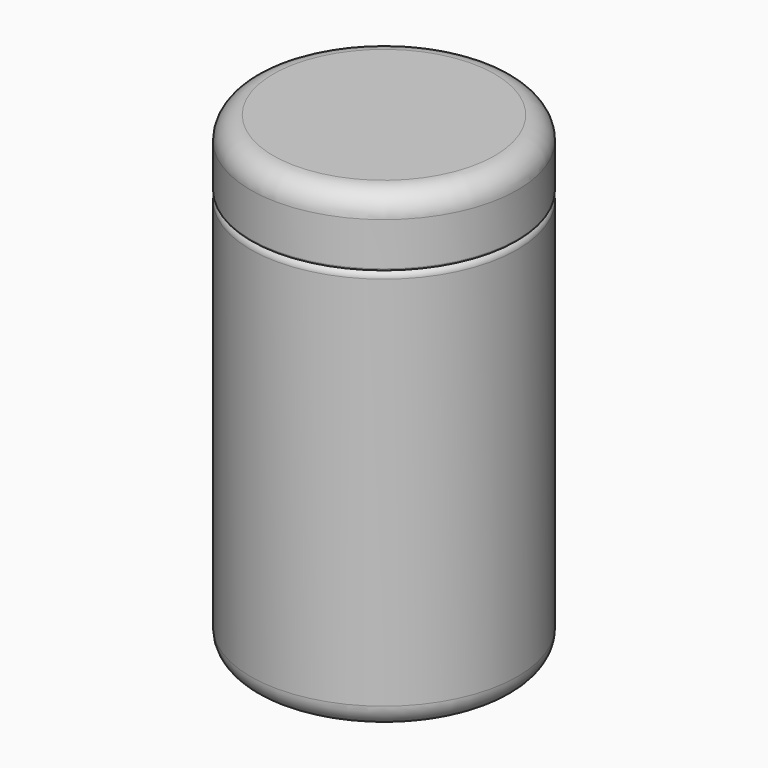
from build123d import *


with BuildPart() as f1:
    # F0 (on Front) → F1 (revolve)
    with BuildSketch(Plane.XZ):
        with BuildLine():
            ThreePointArc((31.496, 128.905), (32.844965, 128.517183), (33.782, 127.47216))
            ThreePointArc((33.782, 127.47216), (33.971686, 126.932961), (34.036, 126.365))
            Line((34.036, 126.365), (34.036, 117.602))
            ThreePointArc((34.036, 117.602), (34.069519, 117.46001), (34.163, 117.348))
            ThreePointArc((34.163, 117.348), (34.417, 116.84), (34.163, 116.332))
            ThreePointArc((34.163, 116.332), (34.069519, 116.21999), (34.036, 116.078))
            Line((34.036, 116.078), (34.036, 114.3))
            ThreePointArc((34.036, 114.3), (34.407974, 113.401974), (35.306, 113.03))
            Line((35.306, 113.03), (36.576, 113.03))
            ThreePointArc((36.576, 113.03), (37.025013, 113.215987), (37.211, 113.665))
            Line((37.211, 113.665), (37.211, 125.73))
            ThreePointArc((37.211, 125.73), (35.351128, 130.220128), (30.861, 132.08))
            Line((30.861, 132.08), (0, 132.08))
            Line((0, 132.08), (0, 128.905))
            Line((0, 128.905), (30.6705, 128.905))
            Line((30.6705, 128.905), (31.496, 128.905))
        make_face()
    revolve(axis=Axis((0, 0, 130.4925), (0, 0, -1)))


with BuildPart() as f2:
    # F0 (on Front) → F2 (revolve)
    with BuildSketch(Plane.XZ):
        with BuildLine():
            Line((0, 3.175), (0, 0))
            Line((0, 0), (30.861, 0))
            ThreePointArc((30.861, 0), (35.351128, 1.859872), (37.211, 6.35))
            Line((37.211, 6.35), (37.211, 111.125))
            ThreePointArc((37.211, 111.125), (36.955167, 112.078559), (36.256381, 112.776))
            Line((36.256381, 112.776), (35.306, 112.776))
            ThreePointArc((35.306, 112.776), (34.228369, 113.222369), (33.782, 114.3))
            Line((33.782, 114.3), (33.782, 115.941974))
            ThreePointArc((33.782, 115.941974), (33.723738, 116.125283), (33.570333, 116.241316))
            ThreePointArc((33.570333, 116.241316), (33.147, 116.84), (33.570333, 117.438684))
            ThreePointArc((33.570333, 117.438684), (33.723738, 117.554717), (33.782, 117.738026))
            Line((33.782, 117.738026), (33.782, 126.365))
            ThreePointArc((33.782, 126.365), (33.112446, 127.981446), (31.496, 128.651))
            Line((31.496, 128.651), (31.1785, 128.651))
            ThreePointArc((31.1785, 128.651), (30.804577, 128.202961), (30.6705, 127.635))
            Line((30.6705, 127.635), (30.6705, 111.76))
            ThreePointArc((30.6705, 111.76), (31.228462, 110.412962), (32.5755, 109.855))
            Line((32.5755, 109.855), (31.9405, 109.855))
            ThreePointArc((31.9405, 109.855), (33.287538, 109.297038), (33.8455, 107.95))
            Line((33.8455, 107.95), (33.8455, 6.35))
            ThreePointArc((33.8455, 6.35), (32.915564, 4.104936), (30.6705, 3.175))
            Line((30.6705, 3.175), (0, 3.175))
        make_face()
    revolve(axis=Axis((0, 0, 1.5875), (0, 0, -1)))


solid = Compound([f1.part, f2.part])
